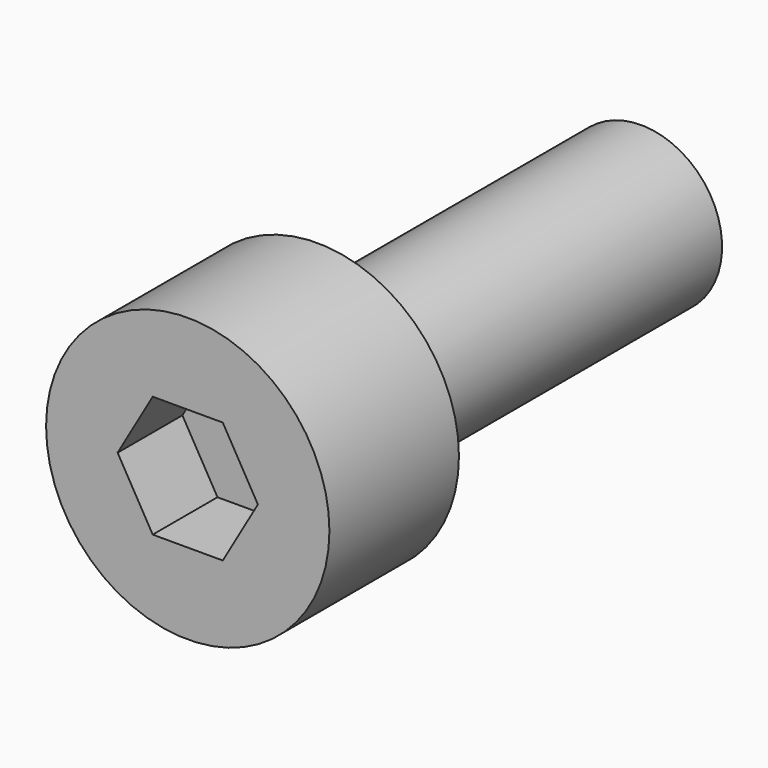
from build123d import *

# Parameters (mm, degrees)
F0_R     = 3.5
F1_DEPTH = 4
F2_R     = 2
F3_DEPTH = 10
F5_DEPTH = 2


with BuildPart() as f1:
    # F0 (on Front) → F1 (new body)
    with BuildSketch(Plane.XZ):
        Circle(F0_R)
    extrude(amount=F1_DEPTH)

    # F2 (on face) → F3 (join)
    with BuildSketch(Plane(origin=(0, 0, 0), x_dir=(-1, 0, 0), z_dir=(0, 1, 0))):
        Circle(F2_R)
    extrude(amount=F3_DEPTH)

    # F4 (on face) → F5 (cut)
    with BuildSketch(Plane.XZ.offset(4)):
        Polygon((0.866025, 1.5), (-0.866025, 1.5), (-1.732051, 0), (-0.866025, -1.5), (0.866025, -1.5), (1.732051, 0), align=None)
    extrude(amount=-F5_DEPTH, mode=Mode.SUBTRACT)


solid = f1.part
